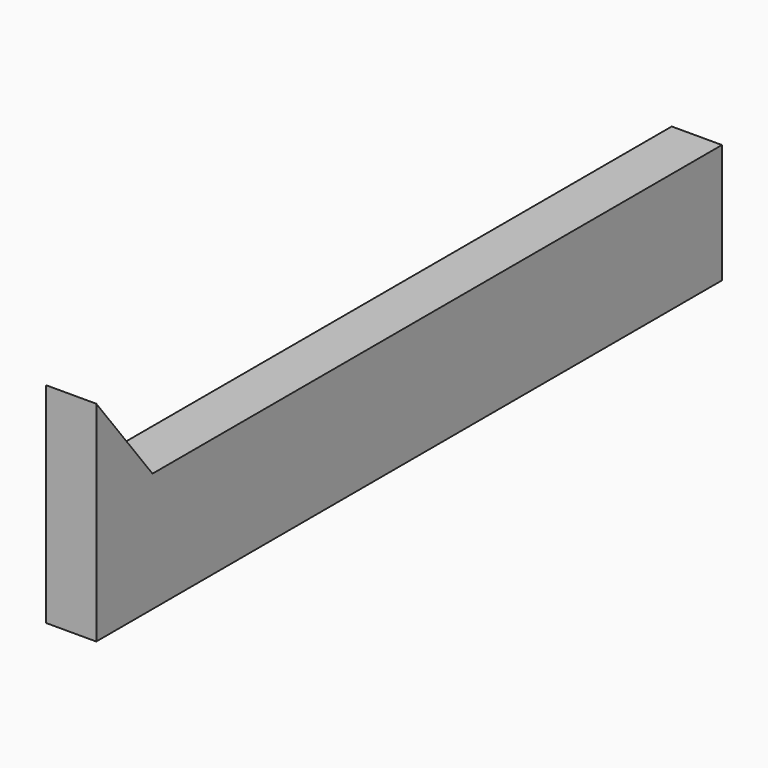
from build123d import *

# Parameters (mm, degrees)
F0_W      = 8.3522722125
F0_H      = 65.1477314532
F1_DEPTH  = 19.841
F2_W      = 8.3522722125
F2_H      = 11.6972830147
F3_DEPTH  = 15
F3_FACE_W = 8.3522722125
F3_FACE_H = 11.6972830147
F1_FACE_W = 8.3522722125
F1_FACE_H = 53.4504484385
F5_DEPTH  = 65


with BuildPart() as f1:
    # F0 (on Top) → F1 (new body)
    with BuildSketch(Plane.XY):
        with Locations((9.7681805491, -0.9545441717)):
            Rectangle(F0_W, F0_H)
    extrude(amount=F1_DEPTH)

    # F2 (on face) → F3 (join)
    with BuildSketch(Plane.XY.offset(19.841)):
        with Locations((9.7681805491, -27.679768391)):
            Rectangle(F2_W, F2_H)
    extrude(amount=F3_DEPTH)

    # F3_face (on face) → F4 section 0
    with BuildSketch(Plane(origin=(9.7681805491, -27.679768391, 34.841), x_dir=(1, 0, 0), z_dir=(0, 0, 1))):
        Rectangle(F3_FACE_W, F3_FACE_H)
    # F1_face (on face) → F4 section 1
    with BuildSketch(Plane(origin=(9.7681805491, -0.9545441717, 19.841), x_dir=(1, 0, 0), z_dir=(0, 0, 1))):
        with Locations((0, 5.8486415073)):
            Rectangle(F1_FACE_W, F1_FACE_H)
    loft(mode=Mode.SUBTRACT)

    # F5 (add): a face of the model
    f5_faces = [f1.faces().sort_by_distance(p)[0] for p in [
        (9.7681805491, 31.6193215549, 9.9205),
    ]]
    extrude(f5_faces, amount=F5_DEPTH)


solid = f1.part
